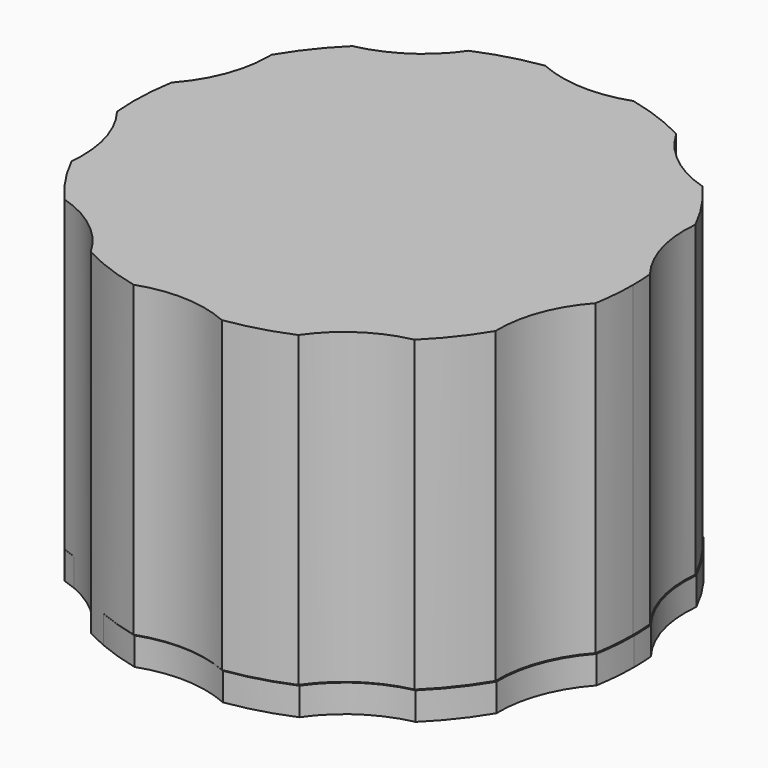
from build123d import *

# Parameters (mm, degrees)
F1_DEPTH  = 2.54
F2_R      = 19.326494
F3_DEPTH  = 5.08
F4_R      = 0.254
F9_R      = 19.81247
F10_DEPTH = 10.16
F11_R     = 19.81247
F12_DEPTH = 30.734


with BuildPart() as f1:
    # F0 (on Top) → F1 (new body)
    with BuildSketch(Plane.XY):
        with BuildLine():
            ThreePointArc((22.501266, -3.870398), (22.748949, -1.942239), (22.83171, 0))
            ThreePointArc((22.83171, 0), (22.808385, 1.031768), (22.738458, 2.061429))
            ThreePointArc((22.738458, 2.061429), (20.83326, 5.859957), (20.47887, 10.094695))
            ThreePointArc((20.47887, 10.094695), (18.992685, 12.671419), (17.184122, 15.033061))
            ThreePointArc((17.184122, 15.033061), (13.410065, 16.986288), (10.634241, 20.203957))
            ThreePointArc((10.634241, 20.203957), (7.917332, 21.415014), (5.066035, 22.262575))
            ThreePointArc((5.066035, 22.262575), (0.864681, 21.624434), (-3.272307, 22.595995))
            ThreePointArc((-3.272307, 22.595995), (-6.182174, 21.978801), (-8.987105, 20.988542))
            ThreePointArc((-8.987105, 20.988542), (-12.010982, 18.002781), (-15.928944, 16.35713))
            ThreePointArc((-15.928944, 16.35713), (-17.920299, 14.147433), (-19.607476, 11.6976))
            ThreePointArc((-19.607476, 11.6976), (-19.604348, 11.544731), (-19.603305, 11.391835))
            ThreePointArc((-19.603305, 11.391835), (-20.352856, 7.36163), (-22.501266, 3.870398))
            ThreePointArc((-22.501266, 3.870398), (-22.813479, 0.912227), (-22.738458, -2.061429))
            ThreePointArc((-22.738458, -2.061429), (-21.011387, -5.286146), (-20.414509, -8.895206))
            ThreePointArc((-20.414509, -8.895206), (-20.430611, -9.495813), (-20.47887, -10.094695))
            ThreePointArc((-20.47887, -10.094695), (-18.992685, -12.671419), (-17.184122, -15.033061))
            ThreePointArc((-17.184122, -15.033061), (-13.410065, -16.986288), (-10.634241, -20.203957))
            ThreePointArc((-10.634241, -20.203957), (-7.917332, -21.415014), (-5.066035, -22.262575))
            ThreePointArc((-5.066035, -22.262575), (-0.864681, -21.624434), (3.272307, -22.595995))
            ThreePointArc((3.272307, -22.595995), (6.182174, -21.978801), (8.987105, -20.988542))
            ThreePointArc((8.987105, -20.988542), (12.010982, -18.002781), (15.928944, -16.35713))
            ThreePointArc((15.928944, -16.35713), (17.920299, -14.147433), (19.607476, -11.6976))
            ThreePointArc((19.607476, -11.6976), (20.298858, -7.504678), (22.501266, -3.870398))
        make_face()
    extrude(amount=F1_DEPTH)

    # F2 (on Top) → F3 (join)
    with BuildSketch(Plane.XY):
        Circle(F2_R)
    extrude(amount=F3_DEPTH)

    # F4
    f4_edges = [f1.edges().sort_by_distance(p)[0] for p in [
        (-19.326494, 0, 5.08),
    ]]
    fillet(f4_edges, radius=F4_R)


with BuildPart() as f5_1:
    # F5: copy of F1
    add(f1.part)


with BuildPart() as f7_1:
    # F7: copy of F1
    add(f1.part.moved(Location((0, 0, 6.35))))


with BuildPart() as f10:
    # F9 (on Top) → F10 (new body)
    with BuildSketch(Plane.XY):
        with BuildLine():
            ThreePointArc((22.359341, -3.8077), (22.607024, -1.879542), (22.689784, 0.062698))
            ThreePointArc((22.689784, 0.062698), (22.66646, 1.094466), (22.596533, 2.124126))
            ThreePointArc((22.596533, 2.124126), (20.691335, 5.922655), (20.336944, 10.157392))
            ThreePointArc((20.336944, 10.157392), (18.85076, 12.734117), (17.042197, 15.095759))
            ThreePointArc((17.042197, 15.095759), (13.26814, 17.048985), (10.492316, 20.266655))
            ThreePointArc((10.492316, 20.266655), (7.775406, 21.477712), (4.92411, 22.325273))
            ThreePointArc((4.92411, 22.325273), (0.722756, 21.687132), (-3.414232, 22.658692))
            ThreePointArc((-3.414232, 22.658692), (-6.324099, 22.041499), (-9.12903, 21.05124))
            ThreePointArc((-9.12903, 21.05124), (-12.152907, 18.065479), (-16.070869, 16.419828))
            ThreePointArc((-16.070869, 16.419828), (-18.062224, 14.210131), (-19.749402, 11.760297))
            ThreePointArc((-19.749402, 11.760297), (-19.746274, 11.607429), (-19.745231, 11.454532))
            ThreePointArc((-19.745231, 11.454532), (-20.494781, 7.424328), (-22.643192, 3.933095))
            ThreePointArc((-22.643192, 3.933095), (-22.955404, 0.974924), (-22.880383, -1.998731))
            ThreePointArc((-22.880383, -1.998731), (-21.153313, -5.223449), (-20.556434, -8.832509))
            ThreePointArc((-20.556434, -8.832509), (-20.572536, -9.433116), (-20.620795, -10.031997))
            ThreePointArc((-20.620795, -10.031997), (-19.134611, -12.608722), (-17.326047, -14.970364))
            ThreePointArc((-17.326047, -14.970364), (-13.55199, -16.92359), (-10.776166, -20.14126))
            ThreePointArc((-10.776166, -20.14126), (-8.059257, -21.352316), (-5.20796, -22.199878))
            ThreePointArc((-5.20796, -22.199878), (-1.006606, -21.561736), (3.130381, -22.533297))
            ThreePointArc((3.130381, -22.533297), (6.040248, -21.916104), (8.84518, -20.925845))
            ThreePointArc((8.84518, -20.925845), (11.869056, -17.940084), (15.787019, -16.294433))
            ThreePointArc((15.787019, -16.294433), (17.778373, -14.084736), (19.465551, -11.634902))
            ThreePointArc((19.465551, -11.634902), (20.156932, -7.441981), (22.359341, -3.8077))
        make_face()
        Circle(F9_R, mode=Mode.SUBTRACT)
    extrude(amount=F10_DEPTH)


with BuildPart() as f12:
    # F11 (on face) → F12 (new body)
    with BuildSketch(Plane.XY):
        with BuildLine():
            ThreePointArc((19.465551, -11.634902), (20.156932, -7.441981), (22.359341, -3.8077))
            ThreePointArc((22.359341, -3.8077), (22.607024, -1.879542), (22.689784, 0.062698))
            ThreePointArc((22.689784, 0.062698), (22.66646, 1.094466), (22.596533, 2.124126))
            ThreePointArc((22.596533, 2.124126), (20.691335, 5.922655), (20.336944, 10.157392))
            ThreePointArc((20.336944, 10.157392), (18.85076, 12.734117), (17.042197, 15.095759))
            ThreePointArc((17.042197, 15.095759), (13.26814, 17.048985), (10.492316, 20.266655))
            ThreePointArc((10.492316, 20.266655), (7.775406, 21.477712), (4.92411, 22.325273))
            ThreePointArc((4.92411, 22.325273), (0.722756, 21.687132), (-3.414232, 22.658692))
            ThreePointArc((-3.414232, 22.658692), (-6.324099, 22.041499), (-9.12903, 21.05124))
            ThreePointArc((-9.12903, 21.05124), (-12.152907, 18.065479), (-16.070869, 16.419828))
            ThreePointArc((-16.070869, 16.419828), (-18.062224, 14.210131), (-19.749402, 11.760297))
            ThreePointArc((-19.749402, 11.760297), (-19.746274, 11.607429), (-19.745231, 11.454532))
            ThreePointArc((-19.745231, 11.454532), (-20.494781, 7.424328), (-22.643192, 3.933095))
            ThreePointArc((-22.643192, 3.933095), (-22.955404, 0.974924), (-22.880383, -1.998731))
            ThreePointArc((-22.880383, -1.998731), (-21.153313, -5.223449), (-20.556434, -8.832509))
            ThreePointArc((-20.556434, -8.832509), (-20.572536, -9.433116), (-20.620795, -10.031997))
            ThreePointArc((-20.620795, -10.031997), (-19.134611, -12.608722), (-17.326047, -14.970364))
            ThreePointArc((-17.326047, -14.970364), (-13.55199, -16.92359), (-10.776166, -20.14126))
            ThreePointArc((-10.776166, -20.14126), (-8.059257, -21.352316), (-5.20796, -22.199878))
            ThreePointArc((-5.20796, -22.199878), (-1.006606, -21.561736), (3.130381, -22.533297))
            ThreePointArc((3.130381, -22.533297), (6.040248, -21.916104), (8.84518, -20.925845))
            ThreePointArc((8.84518, -20.925845), (11.869056, -17.940084), (15.787019, -16.294433))
            ThreePointArc((15.787019, -16.294433), (17.778373, -14.084736), (19.465551, -11.634902))
        make_face()
        Circle(F11_R, mode=Mode.SUBTRACT)
        Circle(F11_R)
    extrude(amount=F12_DEPTH)


solid = Compound([f1.part, f10.part, f12.part])
